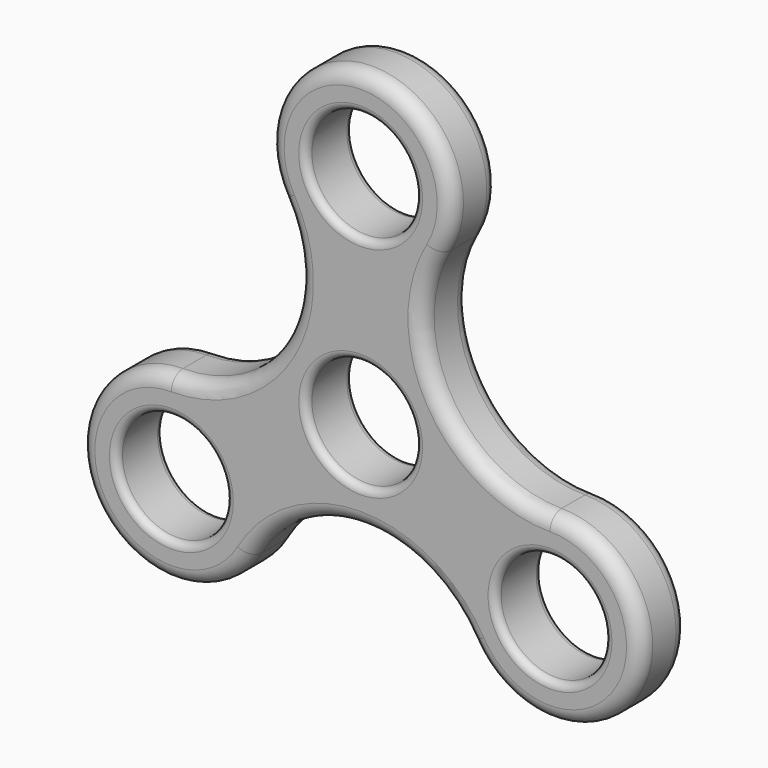
from build123d import *

# Parameters (mm, degrees)
F1_DEPTH = 4
F2_R     = 2
F3_R     = 7.5
F4_DEPTH = 8.001
F5_R     = 7.5
F6_DEPTH = 8.001
F7_R     = 1


with BuildPart() as f1:
    # F0 (on Front) → F1 (new body, symmetric)
    with BuildSketch(Plane.XZ):
        with BuildLine():
            ThreePointArc((25.9807621135, -2.5), (10.8253175473, 6.25), (10.8253175473, 23.75))
            ThreePointArc((10.8253175473, 23.75), (0, 42.5), (-10.8253175473, 23.75))
            ThreePointArc((-10.8253175473, 23.75), (-10.8253175473, 6.25), (-25.9807621135, -2.5))
            ThreePointArc((-25.9807621135, -2.5), (-36.8060796608, -21.25), (-15.1554445662, -21.25))
            ThreePointArc((-15.1554445662, -21.25), (0, -12.5), (15.1554445662, -21.25))
            ThreePointArc((15.1554445662, -21.25), (36.8060796608, -21.25), (25.9807621135, -2.5))
        make_face()
    extrude(amount=F1_DEPTH, both=True)

    # F2
    f2_edges = [f1.edges().sort_by_distance(p)[0] for p in [
        (10.825318, -4, 6.25),
        (0, -4, 42.5),
        (-10.825318, -4, 6.25),
        (-36.80608, -4, -21.25),
        (0, -4, -12.5),
        (36.80608, -4, -21.25),
        (10.825318, 4, 6.25),
        (0, 4, 42.5),
        (-10.825318, 4, 6.25),
        (-36.80608, 4, -21.25),
        (0, 4, -12.5),
        (36.80608, 4, -21.25),
    ]]
    fillet(f2_edges, radius=F2_R)

    # F3 (on face) → F4 (cut, through all)
    with BuildSketch(Plane.XZ.offset(4)):
        Circle(F3_R)
    extrude(amount=-F4_DEPTH, mode=Mode.SUBTRACT)

    # F5 (on face) → F6 (cut, through all)
    with BuildSketch(Plane.XZ.offset(4)):
        with Locations((0, 30)):
            Circle(F5_R)
        with Locations((-25.9807621135, -15)):
            Circle(F5_R)
        with Locations((25.9807621135, -15)):
            Circle(F5_R)
    extrude(amount=-F6_DEPTH, mode=Mode.SUBTRACT)

    # F7
    f7_edges = [f1.edges().sort_by_distance(p)[0] for p in [
        (9.093267, -4, 5.25),
        (35.074029, -4, -20.25),
        (0, -4, 40.5),
        (0, -4, -10.5),
        (-9.093267, -4, 5.25),
        (-35.074029, -4, -20.25),
        (-33.480762, -4, -15),
        (18.480762, -4, -15),
        (-7.5, -4, 0),
        (-7.5, -4, 30),
        (9.093267, 4, 5.25),
        (35.074029, 4, -20.25),
        (0, 4, 40.5),
        (0, 4, -10.5),
        (-9.093267, 4, 5.25),
        (-35.074029, 4, -20.25),
        (-33.480762, 4, -15),
        (18.480762, 4, -15),
        (-7.5, 4, 0),
        (-7.5, 4, 30),
    ]]
    fillet(f7_edges, radius=F7_R)


solid = f1.part
